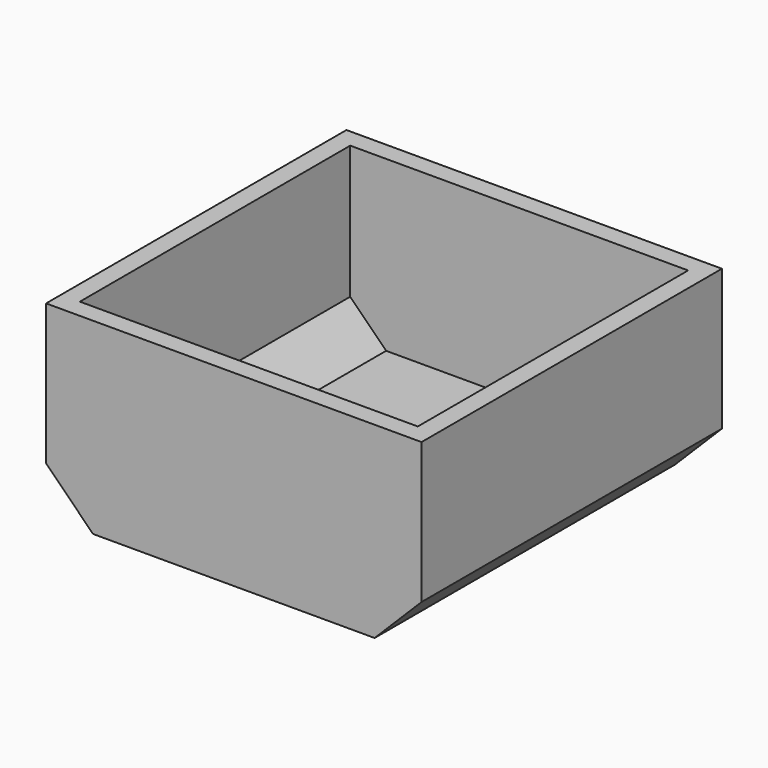
from build123d import *

# Parameters (mm, degrees)
F0_W     = 50.8
F0_H     = 25.4
F1_DEPTH = 50.8
F2_SIZE  = 6.35
F3_SIZE  = 6.35
F4_T     = -2.54


with BuildPart() as f1:
    # F0 (on Front) → F1 (new body)
    with BuildSketch(Plane.XZ):
        with Locations((-55.30939, -62.134533)):
            Rectangle(F0_W, F0_H)
    extrude(amount=F1_DEPTH)

    # F2
    f2_edges = [f1.edges().sort_by_distance(p)[0] for p in [
        (-29.90939, -25.4, -74.834533),
    ]]
    chamfer(f2_edges, length=F2_SIZE)

    # F3
    f3_edges = [f1.edges().sort_by_distance(p)[0] for p in [
        (-80.70939, -25.4, -74.834533),
    ]]
    chamfer(f3_edges, length=F3_SIZE)

    # F4
    f4_openings = [f1.faces().sort_by_distance(p)[0] for p in [
        (-55.30939, -25.4, -49.434533),
    ]]
    offset(amount=F4_T, openings=f4_openings)


solid = f1.part
